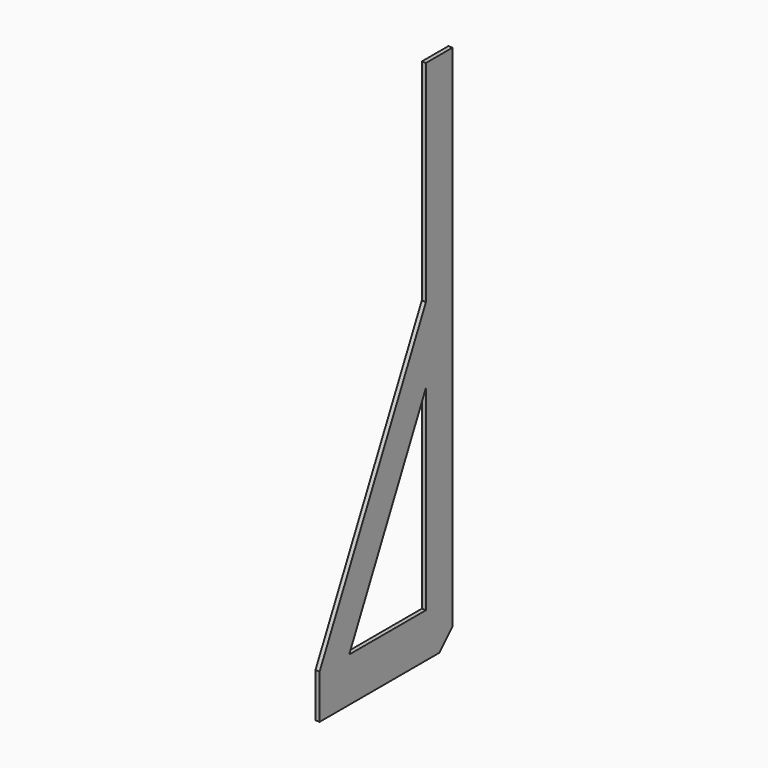
from build123d import *

# Parameters (mm, degrees)
F0_W     = 76.2
F0_H     = 482.6
F1_DEPTH = 9.525


with BuildPart() as f1:
    # F0 (on Right) → F1 (new body)
    with BuildSketch(Plane.YZ):
        with Locations((-38.1, 965.2)):
            Rectangle(F0_W, F0_H)
        Polygon((-381, 0), (-38.1, 0), (0, 38.1), (0, 723.9), (-76.2, 723.9), (-76.2, 550.665995), (-76.2, 101.6), (-296.150691, 101.6), (-381, 101.6), align=None)
        Polygon((-76.2, 723.9), (-381, 101.6), (-296.150691, 101.6), (-76.2, 550.665995), align=None)
    extrude(amount=F1_DEPTH)


solid = f1.part
